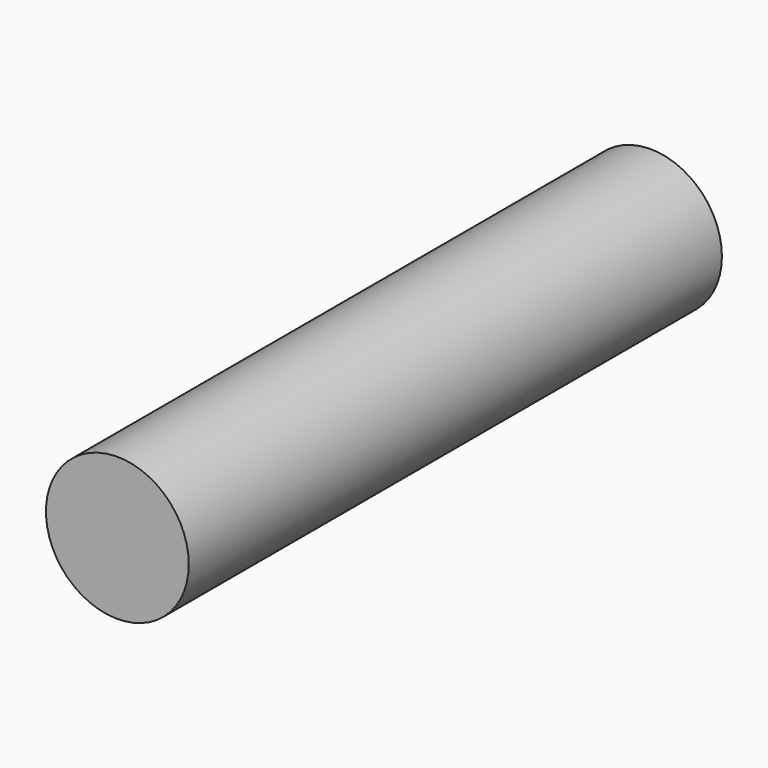
from build123d import *

# Parameters (mm, degrees)
F0_R     = 10.715
F0_R_2   = 9.515
F1_DEPTH = 100
F2_DEPTH = 2


with BuildPart() as f1:
    # F0 (on Front) → F1 (new body)
    with BuildSketch(Plane.XZ):
        Circle(F0_R)
        Circle(F0_R_2, mode=Mode.SUBTRACT)
    extrude(amount=-F1_DEPTH)

    # F0 (on Front) → F2 (join)
    with BuildSketch(Plane.XZ):
        Circle(F0_R_2)
    extrude(amount=-F2_DEPTH)


solid = f1.part
